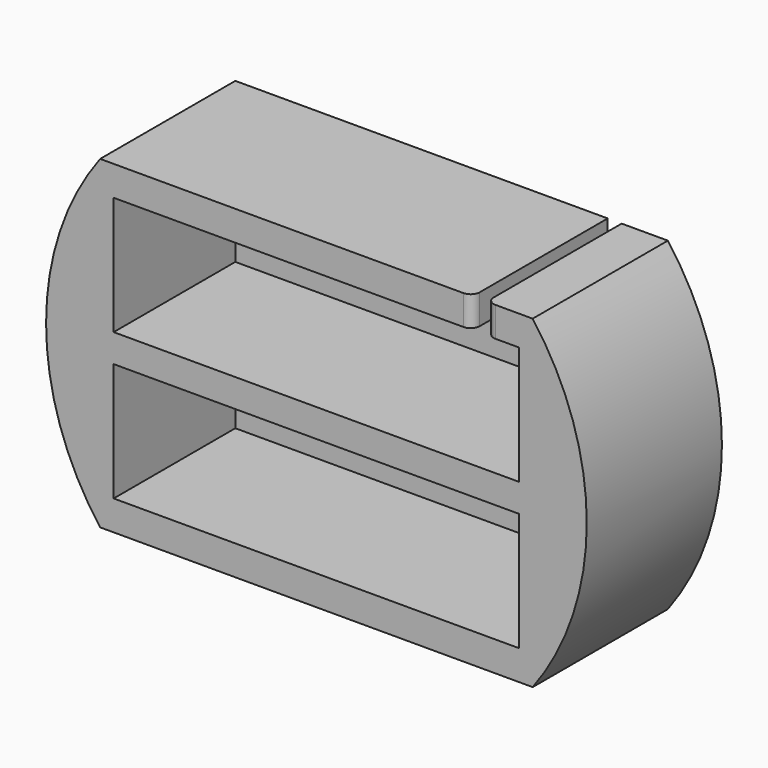
from build123d import *

# Parameters (mm, degrees)
F0_R     = 38.1
F1_DEPTH = 23.8125
F2_W     = 57.15
F2_H     = 16.66875
F3_DEPTH = 21.43125
F5_DEPTH = 25.4
F6_R     = 2.54
F6_W     = 1.9685
F6_H     = 12.000408
F7_DEPTH = 25.4
F8_R     = 1.27


with BuildPart() as f1:
    # F0 (on Front) → F1 (new body)
    with BuildSketch(Plane.XZ):
        Circle(F0_R)
    extrude(amount=F1_DEPTH)

    # F2 (on face) → F3 (cut)
    with BuildSketch(Plane.XZ.offset(23.8125)):
        with Locations((0, 10.31875)):
            Rectangle(F2_W, F2_H)
        with Locations((0, -10.31875)):
            Rectangle(F2_W, F2_H)
    extrude(amount=-F3_DEPTH, mode=Mode.SUBTRACT)

    # F4 (on face) → F5 (cut)
    with BuildSketch(Plane.XZ.offset(23.8125)):
        with BuildLine():
            Line((-30.48, 22.86), (30.48, 22.86))
            ThreePointArc((30.48, 22.86), (0, 38.1), (-30.48, 22.86))
        make_face()
        with BuildLine():
            ThreePointArc((-30.48, -22.86), (0, -38.1), (30.48, -22.86))
            Line((30.48, -22.86), (-30.48, -22.86))
        make_face()
    extrude(amount=-F5_DEPTH, mode=Mode.SUBTRACT)

    # F6 (on face) → F7 (cut, symmetric)
    with BuildSketch(Plane.XZ.offset(2.38125)):
        with Locations((21.43125, -10.31875)):
            Circle(F6_R)
        Polygon((18.89125, 9.04875), (23.97125, 9.04875), (23.97125, 11.58875), (22.00275, 11.58875), (18.89125, 11.58875), align=None)
        with Locations((22.987, 17.588954)):
            Rectangle(F6_W, F6_H)
    extrude(amount=F7_DEPTH, both=True, mode=Mode.SUBTRACT)

    # F8
    f8_edges = [f1.edges().sort_by_distance(p)[0] for p in [
        (23.97125, -23.8125, 20.756562),
        (22.00275, -23.8125, 20.756562),
    ]]
    fillet(f8_edges, radius=F8_R)


solid = f1.part
